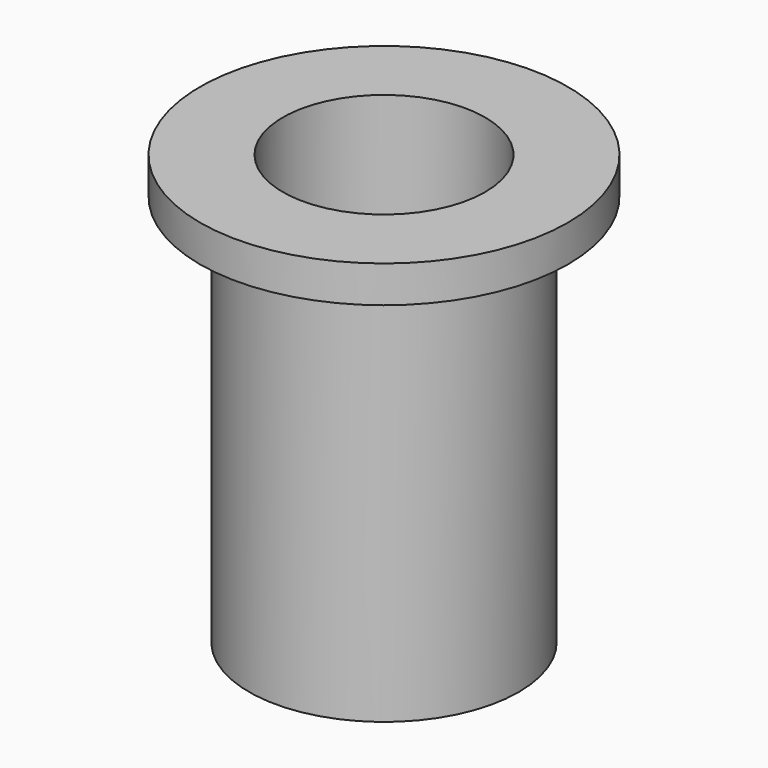
from build123d import *

# Parameters (mm, degrees)
F0_R     = 11
F0_R_2   = 8.25
F1_DEPTH = 32
F0_R_3   = 15
F2_DEPTH = 3


with BuildPart() as f1:
    # F0 (on Top) → F1 (new body)
    with BuildSketch(Plane.XY):
        Circle(F0_R)
        Circle(F0_R_2, mode=Mode.SUBTRACT)
    extrude(amount=-F1_DEPTH)

    # F0 (on Top) → F2 (join)
    with BuildSketch(Plane.XY):
        Circle(F0_R_3)
        Circle(F0_R, mode=Mode.SUBTRACT)
        Circle(F0_R)
        Circle(F0_R_2, mode=Mode.SUBTRACT)
    extrude(amount=F2_DEPTH)


solid = f1.part
